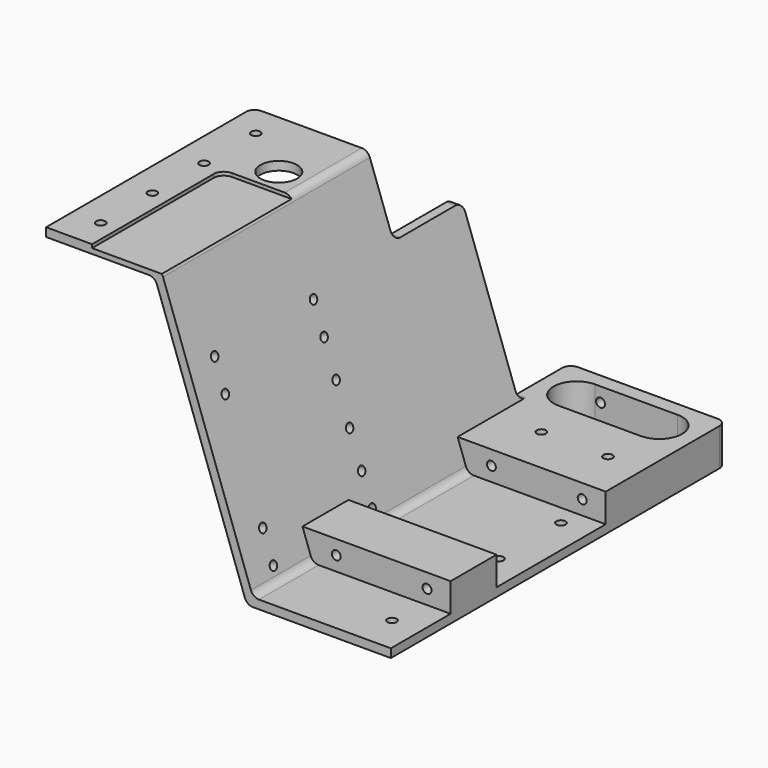
from build123d import *

# Parameters (mm, degrees)
PAD_DEPTH           = 120
SKETCH_R            = 1.55
PAD001_DEPTH        = 20
LINEARPATTERN_COUNT = 2
LINEARPATTERN_PITCH = 74
SKETCH002_W         = 25
SKETCH002_H         = 30
POCKET_DEPTH        = 120.001
SKETCH003_R         = 1.6
POCKET001_DEPTH     = 13.001
SKETCH004_R         = 1.6
POCKET002_DEPTH     = 13
SKETCH005_R         = 1.6
POCKET003_DEPTH     = 93.001
SKETCH006_R         = 1.55
PAD002_DEPTH        = 26
POCKET004_DEPTH     = 13.001
FILLET_R            = 3
FILLET_FACE44_R     = 1.55
PAD003_DEPTH        = 6.5
SKETCH008_R         = 6.4
POCKET005_DEPTH     = 3
SKETCH009_R         = 1.5
POCKET006_DEPTH     = 5
SKETCH010_W         = 25.4
SKETCH010_H         = 112.9
POCKET007_DEPTH     = 1.2
FILLET001_R         = 3.5


with BuildPart() as body001:
    # Sketch001 → Pad (new body)
    with BuildSketch(Plane.XZ):
        Polygon((-70, 45), (-32.1173210497, 45), (-0.1173210497, -45), (50, -45), (50, -42), (2, -42), (-30, 48), (-70, 48), align=None)
    extrude(amount=PAD_DEPTH)

    # Sketch (on Face10 of Pad) → Pad001 (join)
    with BuildSketch(Plane.XZ.offset(120)):
        Polygon((50, -45), (50, -32), (-4.7395432719, -32), (-0.1173210497, -45), align=None)
        with Locations((10.2, -37)):
            Circle(SKETCH_R, mode=Mode.SUBTRACT)
        with Locations((41.8, -37)):
            Circle(SKETCH_R, mode=Mode.SUBTRACT)
    pad001 = extrude(amount=-PAD001_DEPTH)

    # LinearPattern: Pad001 ×2
    with Locations(*[(0, i * LINEARPATTERN_PITCH, 0) for i in range(1, LINEARPATTERN_COUNT)]):
        add(pad001)

    # Sketch002 (on Face2 of LinearPattern) → Pocket (cut, through all)
    with BuildSketch(Plane(origin=(-70, 0, 0), x_dir=(0, 0, -1), z_dir=(-1, 0, 0))):
        with Locations((-35.5, 105)):
            Rectangle(SKETCH002_W, SKETCH002_H)
    extrude(amount=-POCKET_DEPTH, mode=Mode.SUBTRACT)

    # Sketch003 (on Face18 of Pocket) → Pocket001 (cut, through all)
    with BuildSketch(Plane(origin=(0, 0, -32), x_dir=(-1, 0, 0), z_dir=(0, 0, 1))):
        with Locations((-37.6, 110)):
            Circle(SKETCH003_R)
        with Locations((-14.4, 110)):
            Circle(SKETCH003_R)
    extrude(amount=-POCKET001_DEPTH, mode=Mode.SUBTRACT)

    # Sketch004 (on Face16 of Pocket001) → Pocket002 (cut)
    with BuildSketch(Plane(origin=(0, 0, -32), x_dir=(-1, 0, 0), z_dir=(0, 0, 1))):
        with Locations((-40, 13)):
            Circle(SKETCH004_R)
        with Locations((-40, 86.5)):
            Circle(SKETCH004_R)
        with Locations((-40, 59.5)):
            Circle(SKETCH004_R)
    extrude(amount=-POCKET002_DEPTH, mode=Mode.SUBTRACT)

    # Sketch005 (on Face10 of Pocket002) → Pocket003 (cut, through all)
    with BuildSketch(Plane(origin=(0, 0, 48), x_dir=(-1, 0, 0), z_dir=(0, 0, 1))):
        with Locations((60, 56.25)):
            Circle(SKETCH005_R)
        with Locations((60, 33.75)):
            Circle(SKETCH005_R)
        with Locations((60, 78.75)):
            Circle(SKETCH005_R)
        with Locations((60, 11.25)):
            Circle(SKETCH005_R)
    extrude(amount=-POCKET003_DEPTH, mode=Mode.SUBTRACT)

    # Sketch006 (on Face16 of Pocket003) → Pad002 (join)
    with BuildSketch(Plane.XZ.offset(120)):
        Polygon((-4.7395432719, -32), (-0.1173210497, -45), (50, -45), (50, -32), align=None)
        with Locations((10.2, -37)):
            Circle(SKETCH006_R, mode=Mode.SUBTRACT)
        with Locations((41.8, -37)):
            Circle(SKETCH006_R, mode=Mode.SUBTRACT)
    extrude(amount=PAD002_DEPTH)

    # Sketch007 (on Face30 of Pad002) → Pocket004 (cut, through all)
    with BuildSketch(Plane(origin=(0, 0, -32), x_dir=(-1, 0, 0), z_dir=(0, 0, 1))):
        with BuildLine():
            ThreePointArc((-37, 141), (-45, 133), (-37, 125))
            Line((-37, 125), (-8.2604567281, 125))
            ThreePointArc((-8.2604567281, 125), (-0.2604567281, 133), (-8.2604567281, 141))
            Line((-37, 141), (-8.2604567281, 141))
        make_face()
    extrude(amount=-POCKET004_DEPTH, mode=Mode.SUBTRACT)

    # Fillet
    fillet_edges = [body001.edges().sort_by_distance(p)[0] for p in [
        (-70, -90, 46.5),
        (-22.703105, -90, 23),
        (-22.703105, -120, 23),
        (-2.428432, -146, -38.5),
        (-3.147549, -120, -32),
        (50, -146, -38.5),
        (2, -73, -42),
        (2, -13, -42),
        (-30, -45, 48),
        (-32.117321, -45, 45),
        (-0.117321, -73, -45),
    ]]
    fillet(fillet_edges, radius=FILLET_R)

    # Fillet Face44 → Pad003 (add)
    with BuildSketch(Plane(origin=(25.1111807408, -100, -36.9307209513), x_dir=(1, 0, 0), z_dir=(0, 1, 0))):
        with BuildLine():
            Line((-23.8205037619, 3.0743080517), (-26.6667362963, -4.9307209513))
            Line((-26.6667362963, -4.9307209513), (24.8888192592, -4.9307209513))
            Line((24.8888192592, -4.9307209513), (24.8888192592, 5.0692790487))
            Line((24.8888192592, 5.0692790487), (-20.9938596911, 5.0692790487))
            ThreePointArc((-20.9938596911, 5.0692790487), (-22.7237315059, 4.5203081192), (-23.8205037619, 3.0743080517))
        make_face()
        with Locations((-14.9111807408, 0.0692790487)):
            Circle(FILLET_FACE44_R, mode=Mode.SUBTRACT)
        with Locations((16.6888192592, 0.0692790487)):
            Circle(FILLET_FACE44_R, mode=Mode.SUBTRACT)
    extrude(amount=PAD003_DEPTH)

    # Sketch008 (on Face12 of Pad003) → Pocket005 (cut)
    with BuildSketch(Plane(origin=(0, 0, 48), x_dir=(-1, 0, 0), z_dir=(0, 0, 1))):
        with Locations((41, 65)):
            Circle(SKETCH008_R)
    extrude(amount=-POCKET005_DEPTH, mode=Mode.SUBTRACT)

    # Sketch009 (on Face12 of Pocket005) → Pocket006 (cut)
    with BuildSketch(Plane(origin=(-14.3084502962, 0, -5.0874489942), x_dir=(0.3350096677, 0, -0.9422146903), z_dir=(-0.9422146903, 0, -0.3350096677))):
        with Locations((-25.756963673, 54)):
            Circle(SKETCH009_R)
        with Locations((35.243036327, 54)):
            Circle(SKETCH009_R)
        with Locations((24.243036327, 54)):
            Circle(SKETCH009_R)
        with Locations((-14.756963673, 54)):
            Circle(SKETCH009_R)
        with Locations((-14.756963673, 11)):
            Circle(SKETCH009_R)
        with Locations((24.243036327, 11)):
            Circle(SKETCH009_R)
        with Locations((35.243036327, 11)):
            Circle(SKETCH009_R)
        with Locations((-25.756963673, 11)):
            Circle(SKETCH009_R)
        with Locations((-2.256963673, 54)):
            Circle(SKETCH009_R)
        with Locations((11.743036327, 54)):
            Circle(SKETCH009_R)
    extrude(amount=-POCKET006_DEPTH, mode=Mode.SUBTRACT)

    # Sketch010 (on Face13 of Pocket006) → Pocket007 (cut)
    with BuildSketch(Plane(origin=(0, 0, 48), x_dir=(-1, 0, 0), z_dir=(0, 0, 1))):
        with Locations((41.3, 0)):
            Rectangle(SKETCH010_W, SKETCH010_H)
    extrude(amount=-POCKET007_DEPTH, mode=Mode.SUBTRACT)

    # Fillet001
    fillet001_edges = [body001.edges().sort_by_distance(p)[0] for p in [
        (-54, -56.45, 47.4),
    ]]
    fillet(fillet001_edges, radius=FILLET001_R)


with BuildPart() as part_mirroring:
    # Part__Mirroring: instance of Body001
    add(body001.part.mirror(Plane(origin=(0, 0, 0), x_dir=(1, 0, 0), z_dir=(0, 1, 0))))


solid = part_mirroring.part
